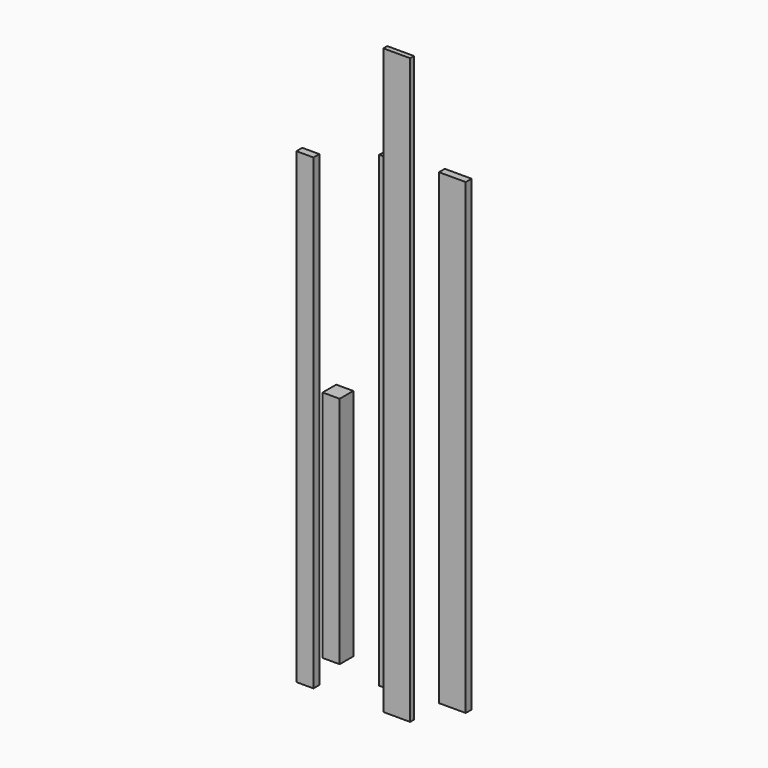
from build123d import *

# Parameters (mm, degrees)
F0_W     = 88.9
F0_H     = 88.9
F1_DEPTH = 2438.4
F2_W     = 88.9
F2_H     = 88.9
F3_DEPTH = 1219.2
F2_H_2   = 38.1
F4_DEPTH = 2438.4
F2_W_2   = 139.7
F2_H_3   = 25.4
F5_DEPTH = 3048
F6_DEPTH = 2438.4


with BuildPart() as f1:
    # F0 (on Top) → F1 (new body)
    with BuildSketch(Plane.XY):
        Rectangle(F0_W, F0_H)
    extrude(amount=F1_DEPTH)


with BuildPart() as f3:
    # F2 (on Top) → F3 (new body)
    with BuildSketch(Plane.XY):
        with Locations((-332.824809, 47.450527)):
            Rectangle(F2_W, F2_H)
    extrude(amount=F3_DEPTH)


with BuildPart() as f4:
    # F2 (on Top) → F4 (new body)
    with BuildSketch(Plane.XY):
        with Locations((-282.954089, -211.04096)):
            Rectangle(F2_W, F2_H_2)
    extrude(amount=F4_DEPTH)


with BuildPart() as f5:
    # F2 (on Top) → F5 (new body)
    with BuildSketch(Plane.XY):
        with Locations((183.69353, -202.21292)):
            Rectangle(F2_W_2, F2_H_3)
    extrude(amount=F5_DEPTH)


with BuildPart() as f6:
    # F2 (on Top) → F6 (new body)
    with BuildSketch(Plane.XY):
        with Locations((311.62279, 6.872475)):
            Rectangle(F2_W_2, F2_H_2)
    extrude(amount=F6_DEPTH)


solid = Compound([f1.part, f3.part, f4.part, f5.part, f6.part])
